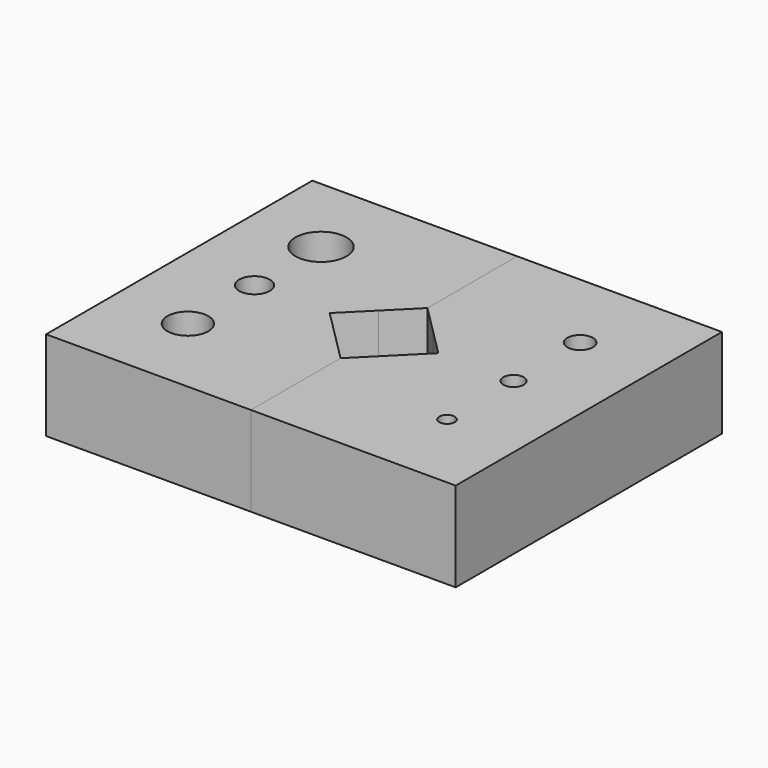
from build123d import *

# Parameters (mm, degrees)
F1_DEPTH = 35
F2_DEPTH = 35
F3_R     = 10
F3_R_2   = 6
F3_R_3   = 8
F4_DEPTH = 35
F5_R     = 5
F5_R_2   = 4
F5_R_3   = 3
F6_DEPTH = 35


with BuildPart() as f1:
    # F0 (on Top) → F1 (new body)
    with BuildSketch(Plane.XY):
        Polygon((-80, -65), (0, -65), (0, -21.213203), (-10.606602, -10.606602), (-21.213203, 0), (-10.606602, 10.606602), (0, 21.213203), (0, 65), (-80, 65), align=None)
    extrude(amount=F1_DEPTH)

    # F3 (on face) → F4 (cut)
    with BuildSketch(Plane.XY.offset(35)):
        with Locations((-50.606602, 32.5)):
            Circle(F3_R)
        with Locations((-50.606602, 0)):
            Circle(F3_R_2)
        with Locations((-50.606602, -32.5)):
            Circle(F3_R_3)
    extrude(amount=-F4_DEPTH, mode=Mode.SUBTRACT)


with BuildPart() as f2:
    # F0 (on Top) → F2 (new body)
    with BuildSketch(Plane.XY):
        Polygon((0, -65), (80, -65), (80, 65), (0, 65), (0, 21.213203), (10.606602, 10.606602), (21.213203, 0), (10.606602, -10.606602), (0, -21.213203), align=None)
    extrude(amount=F2_DEPTH)

    # F5 (on face) → F6 (cut)
    with BuildSketch(Plane.XY.offset(35)):
        with Locations((50.606602, 32.5)):
            Circle(F5_R)
        with Locations((50.606602, 0)):
            Circle(F5_R_2)
        with Locations((50.606602, -32.5)):
            Circle(F5_R_3)
    extrude(amount=-F6_DEPTH, mode=Mode.SUBTRACT)


solid = Compound([f1.part, f2.part])
